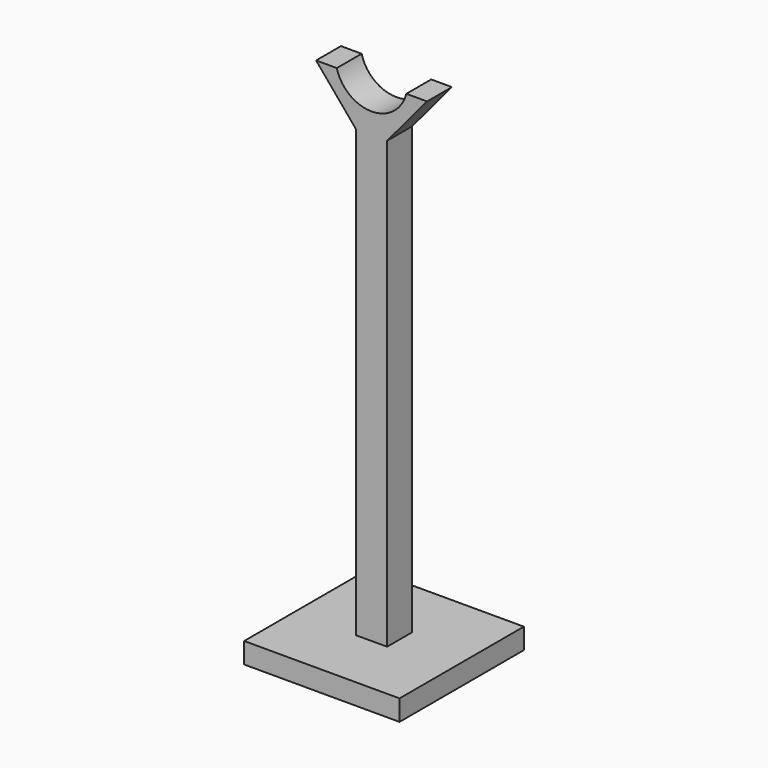
from build123d import *

# Parameters (mm, degrees)
F0_W     = 7.62
F0_H     = 114.3
F1_DEPTH = 3.81
F2_W     = 38.1
F2_H     = 38.1
F2_W_2   = 7.62
F2_H_2   = 7.62
F3_DEPTH = 5.08


with BuildPart() as f1:
    # F0 (on Front) → F1 (new body, symmetric)
    with BuildSketch(Plane.XZ):
        Rectangle(F0_W, F0_H)
        with BuildLine():
            Line((-3.81, 57.15), (3.81, 57.15))
            Line((3.81, 57.15), (13.606083, 68.824517))
            Line((13.606083, 68.824517), (8.526083, 68.824517))
            ThreePointArc((8.526083, 68.824517), (0, 62.23), (-8.526083, 68.824517))
            Line((-8.526083, 68.824517), (-13.606083, 68.824517))
            Line((-13.606083, 68.824517), (-3.81, 57.15))
        make_face()
    extrude(amount=F1_DEPTH, both=True)

    # F2 (on face) → F3 (join)
    with BuildSketch(Plane(origin=(0, 0, -57.15), x_dir=(1, 0, 0), z_dir=(0, 0, -1))):
        Rectangle(F2_W, F2_H)
        Rectangle(F2_W_2, F2_H_2, mode=Mode.SUBTRACT)
    extrude(amount=-F3_DEPTH)


solid = f1.part
